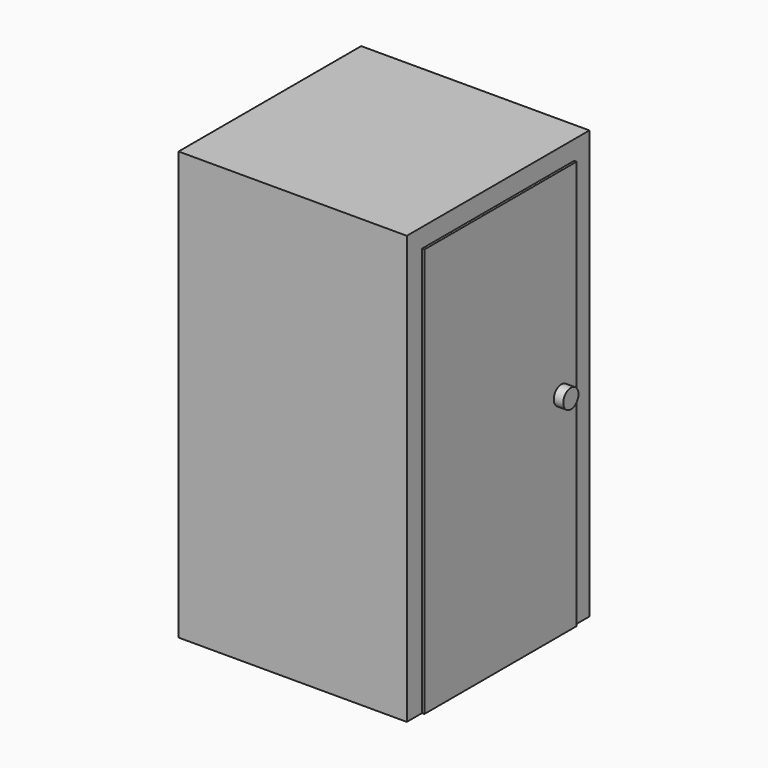
from build123d import *

# Parameters (mm, degrees)
F0_W     = 609.6
F0_H     = 1143
F1_DEPTH = 609.6
F2_W     = 508
F2_H     = 1092.2
F3_DEPTH = 6.35
F4_R     = 25.4
F5_DEPTH = 25.4


with BuildPart() as f1:
    # F0 (on Right) → F1 (new body)
    with BuildSketch(Plane.YZ):
        with Locations((-76.00952, 7.364793)):
            Rectangle(F0_W, F0_H)
    extrude(amount=F1_DEPTH)

    # F2 (on face) → F3 (join)
    with BuildSketch(Plane.YZ.offset(609.6)):
        with Locations((-76.00952, -18.035207)):
            Rectangle(F2_W, F2_H)
    extrude(amount=F3_DEPTH)

    # F4 (on face) → F5 (join)
    with BuildSketch(Plane.YZ.offset(615.95)):
        with Locations((127.19048, 0)):
            Circle(F4_R)
    extrude(amount=F5_DEPTH)


solid = f1.part
